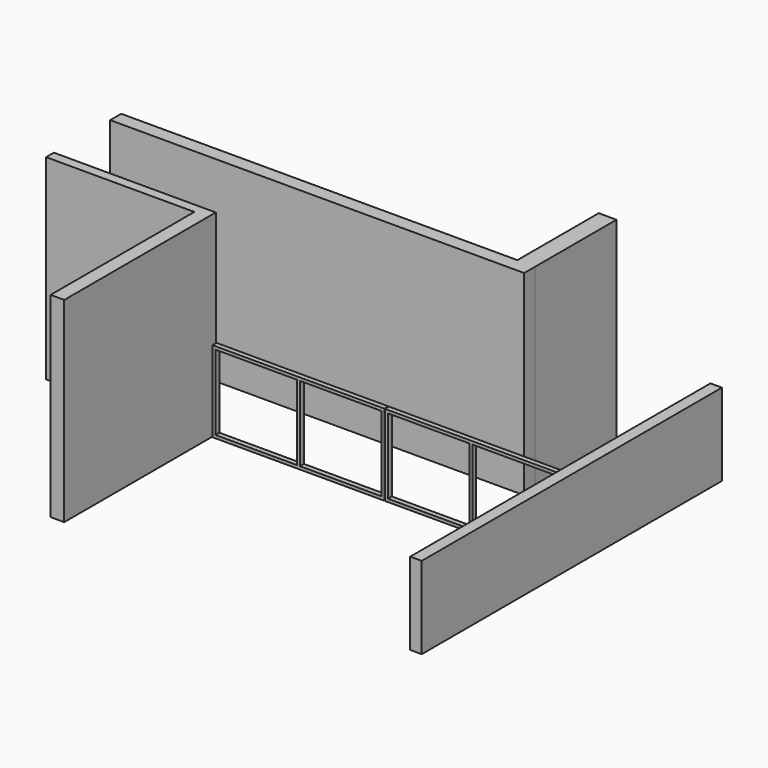
from build123d import *

# Parameters (mm, degrees)
F0_W     = 1894.448854
F0_H     = 124.315219
F0_W_2   = 227.062435
F0_H_2   = 1298.63121
F1_DEPTH = 2500
F0_W_3   = 147.121081
F0_H_3   = 2420
F0_H_4   = 2374.560995
F2_DEPTH = 1050
F3_W     = 2195
F3_H     = 63
F4_DEPTH = 38
F5_DEPTH = 38
F6_W     = 38
F6_H     = 63
F7_DEPTH = 960


with BuildPart() as f1:
    # F0 (on Top) → F1 (new body)
    with BuildSketch(Plane.XY):
        Polygon((-2402.81906, 1241.32359), (-2402.81906, -1054.361191), (-2228.617251, -1054.361191), (-2228.617251, 1323.004286), (-2228.617251, 1365.638809), (-2402.81906, 1365.638809), align=None)
        Polygon((991.382749, 2265.638809), (991.382749, 2441.568594), (764.320314, 2441.568594), (-4297.267914, 2441.568594), (-4297.267914, 2265.638809), align=None)
        with Locations((-3350.043487, 1303.4812)):
            Rectangle(F0_W, F0_H)
        with Locations((877.851531, 3090.884199)):
            Rectangle(F0_W_2, F0_H_2)
    extrude(amount=F1_DEPTH)


with BuildPart() as f2:
    # F0 (on Top) → F2 (new body)
    with BuildSketch(Plane.XY):
        with Locations((2264.943289, 155.638809)):
            Rectangle(F0_W_3, F0_H_3)
        with Locations((2264.943289, 2552.919306)):
            Rectangle(F0_W_3, F0_H_4)
    extrude(amount=F2_DEPTH)


with BuildPart() as f4:
    # F3 (on Top) → F4 (new body)
    with BuildSketch(Plane.XY):
        with Locations((1079.882749, 1334.138809)):
            Rectangle(F3_W, F3_H)
    extrude(amount=F4_DEPTH)


with BuildPart() as f5:
    # F3 (on Top) → F5 (new body)
    with BuildSketch(Plane.XY):
        with Locations((-1122.617251, 1334.138809)):
            Rectangle(F3_W, F3_H)
    extrude(amount=F5_DEPTH)


with BuildPart() as f7:
    # F6 (on face) → F7 (new body)
    with BuildSketch(Plane.XY.offset(38)):
        with Locations((2158.382749, 1334.138809)):
            Rectangle(F6_W, F6_H)
        with Locations((1.382749, 1334.138809)):
            Rectangle(F6_W, F6_H)
        with Locations((-44.117251, 1334.138809)):
            Rectangle(F6_W, F6_H)
        with Locations((-2201.117251, 1334.138809)):
            Rectangle(F6_W, F6_H)
        with Locations((1079.882749, 1334.138809)):
            Rectangle(F6_W, F6_H)
        with Locations((-1122.617251, 1334.138809)):
            Rectangle(F6_W, F6_H)
    extrude(amount=F7_DEPTH)


with BuildPart() as f9_1:
    # F9: instance of F4
    add(f4.part.mirror(Plane(origin=(1619.132749, 1334.138809, 518), x_dir=(1, 0, 0), z_dir=(0, 0, 1))))


with BuildPart() as f9_2:
    # F9: instance of F5
    add(f5.part.mirror(Plane(origin=(1619.132749, 1334.138809, 518), x_dir=(1, 0, 0), z_dir=(0, 0, 1))))


solid = Compound([f1.part, f2.part, f4.part, f5.part, f7.part, f9_1.part, f9_2.part])
